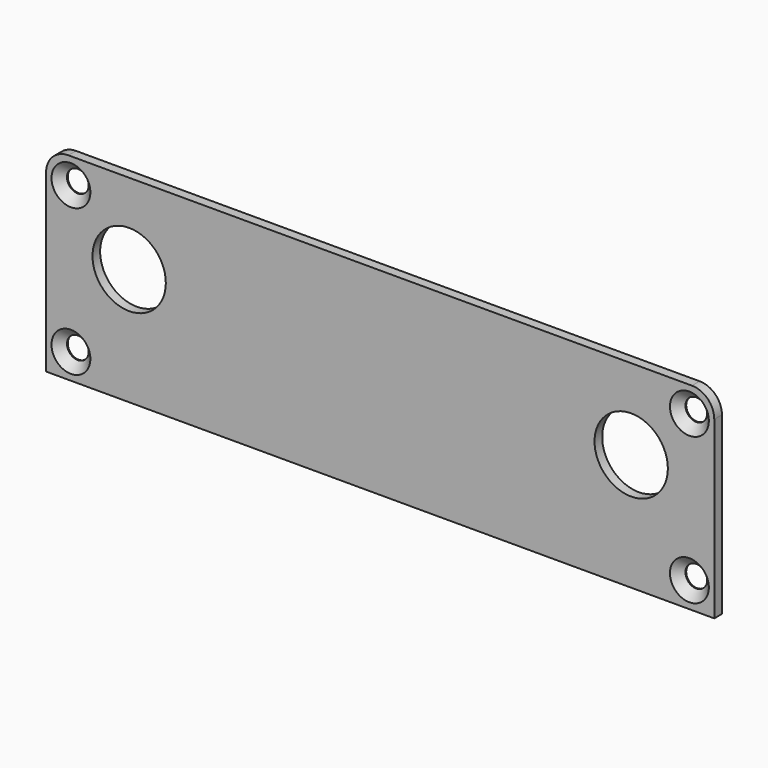
from build123d import *

# Parameters (mm, degrees)
SKETCH_W            = 104.8
SKETCH_H            = 31
PAD_DEPTH           = 1.5
HOLE_D              = 3.4
HOLE_DEPTH          = 25
HOLE_CSINK_D        = 6.1
HOLE_CSINK_ANGLE    = 90
FILLET_R            = 3.5
SKETCH002_R         = 5.75
POCKET_DEPTH        = 1.501
LINEARPATTERN_COUNT = 2
LINEARPATTERN_PITCH = 78.74


with BuildPart() as part:
    # Sketch → Pad (new body)
    with BuildSketch(Plane.XZ):
        Rectangle(SKETCH_W, SKETCH_H)
    extrude(amount=PAD_DEPTH)

    # Hole
    with Locations(Plane.XZ.offset(1.5)):
        with Locations((-48.5, 11.5), (-48.5, -11.5), (48.5, -11.5), (48.5, 11.5)):
            CounterSinkHole(HOLE_D / 2, HOLE_CSINK_D / 2, depth=HOLE_DEPTH, counter_sink_angle=HOLE_CSINK_ANGLE)

    # Fillet
    fillet_edges = [part.edges().sort_by_distance(p)[0] for p in [
        (-52.4, -0.75, 15.5),
        (52.4, -0.75, 15.5),
    ]]
    fillet(fillet_edges, radius=FILLET_R)

    # Sketch002 (on Face5 of Fillet) → Pocket (cut, through all)
    with BuildSketch(Plane.XZ.offset(1.5)):
        with Locations((-39.37, 2.83)):
            Circle(SKETCH002_R)
    pocket = extrude(amount=-POCKET_DEPTH, mode=Mode.SUBTRACT)

    # LinearPattern: Pocket ×2
    with Locations(*[(i * LINEARPATTERN_PITCH, 0, 0) for i in range(1, LINEARPATTERN_COUNT)]):
        add(pocket, mode=Mode.SUBTRACT)


solid = part.part
